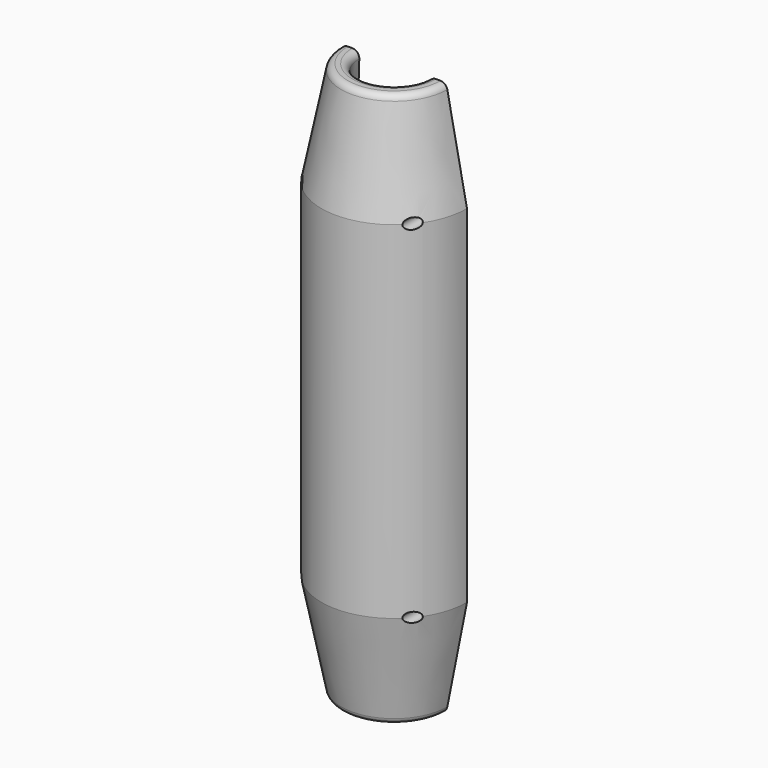
from build123d import *

# Parameters (mm, degrees)
REVOLUTION_ANGLE   = -180
SKETCH002_W        = 30
SKETCH002_H        = 90
POCKET_DEPTH       = 11
HOLE_D             = 1.2
HOLE_DEPTH         = 32
HOLE_CBORE_D       = 3
HOLE_CBORE_DEPTH   = 15
POLARPATTERN_COUNT = 4
FILLET_R           = 2


with BuildPart() as part:
    # Sketch → Revolution (revolve)
    with BuildSketch(Plane.XZ):
        Polygon((10, 80), (11, 50), (11, 0), (21, 0), (21, 50), (15, 80), align=None)
    revolution = revolve(axis=Axis((0, 0, 0), (0, 0, 1)), revolution_arc=REVOLUTION_ANGLE)

    # Mirrored003: Revolution across XY
    add(revolution.mirror(Plane.XY))

    # Sketch002 → Pocket (cut)
    with BuildSketch(Plane.XZ):
        Rectangle(SKETCH002_W, SKETCH002_H)
    extrude(amount=POCKET_DEPTH, mode=Mode.SUBTRACT)

    # Hole
    with Locations(Plane.XZ.offset(20)):
        with Locations((16, 50)):
            hole = CounterBoreHole(HOLE_D / 2, HOLE_CBORE_D / 2, HOLE_CBORE_DEPTH, depth=HOLE_DEPTH)

    # PolarPattern: Hole ×4 about axis
    polarpattern_axis = Axis((0, 0, 0), (0, 1, 0))
    for i in range(1, POLARPATTERN_COUNT):
        add(hole.rotate(polarpattern_axis, i * 360 / POLARPATTERN_COUNT), mode=Mode.SUBTRACT)

    # Mirrored: Hole across XY
    add(hole.mirror(Plane.XY), mode=Mode.SUBTRACT)

    # Mirrored004: Hole across Sketch003 V_Axis
    add(hole.mirror(Plane(origin=(0, -20, 0), x_dir=(0, -1, 0), z_dir=(1, 0, 0))), mode=Mode.SUBTRACT)

    # Fillet
    fillet_edges = [part.edges().sort_by_distance(p)[0] for p in [
        (0, -10, 80),
        (0, -15, 80),
        (0, -10, -80),
        (0, -15, -80),
    ]]
    fillet(fillet_edges, radius=FILLET_R)


solid = part.part
